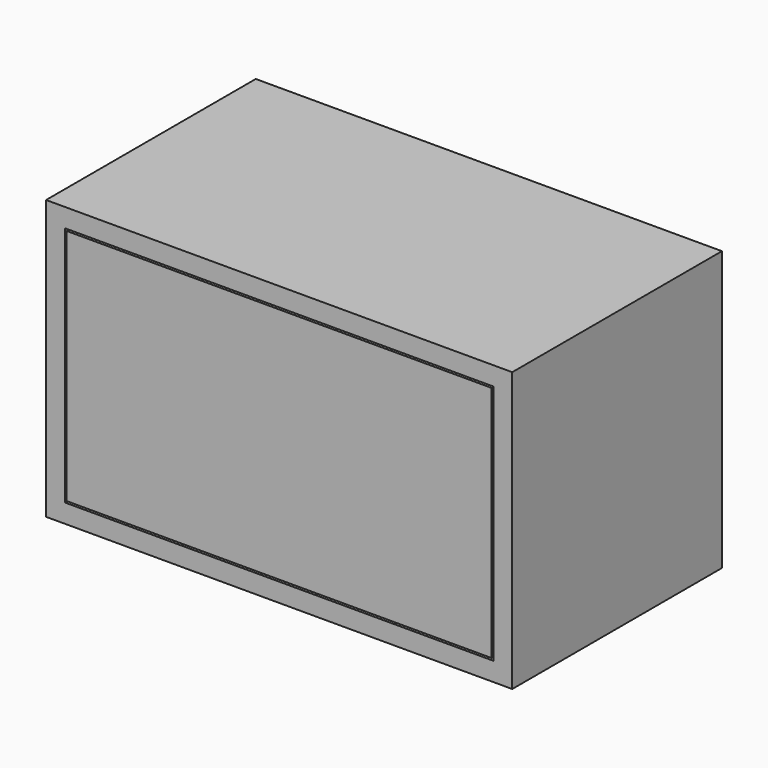
from build123d import *

# Parameters (mm, degrees)
F0_W     = 498
F0_H     = 280
F1_DEPTH = 298
F2_T     = -20
F4_DEPTH = 240
F5_W     = 453.9999861717
F5_H     = 253.9999861717
F6_DEPTH = 20


with BuildPart() as f1:
    # F0 (on Top) → F1 (new body)
    with BuildSketch(Plane.XY):
        with Locations((249, 140)):
            Rectangle(F0_W, F0_H)
    extrude(amount=F1_DEPTH)

    # F2
    f2_openings = [f1.faces().sort_by_distance(p)[0] for p in [
        (249, 0, 149),
    ]]
    offset(amount=F2_T, openings=f2_openings)

    # F3 (on face) → F4 (join, through all)
    with BuildSketch(Plane.XZ.offset(-260)):
        Polygon((463, 263), (35, 263), (35, 20), (55, 20), (55, 243), (443, 243), (443, 20), (463, 20), align=None)
    extrude(amount=F4_DEPTH)


with BuildPart() as f6:
    # F5 (on face) → F6 (new body)
    with BuildSketch(Plane.XZ):
        with Locations((249, 149)):
            Rectangle(F5_W, F5_H)
    extrude(amount=-F6_DEPTH)


solid = Compound([f1.part, f6.part])
